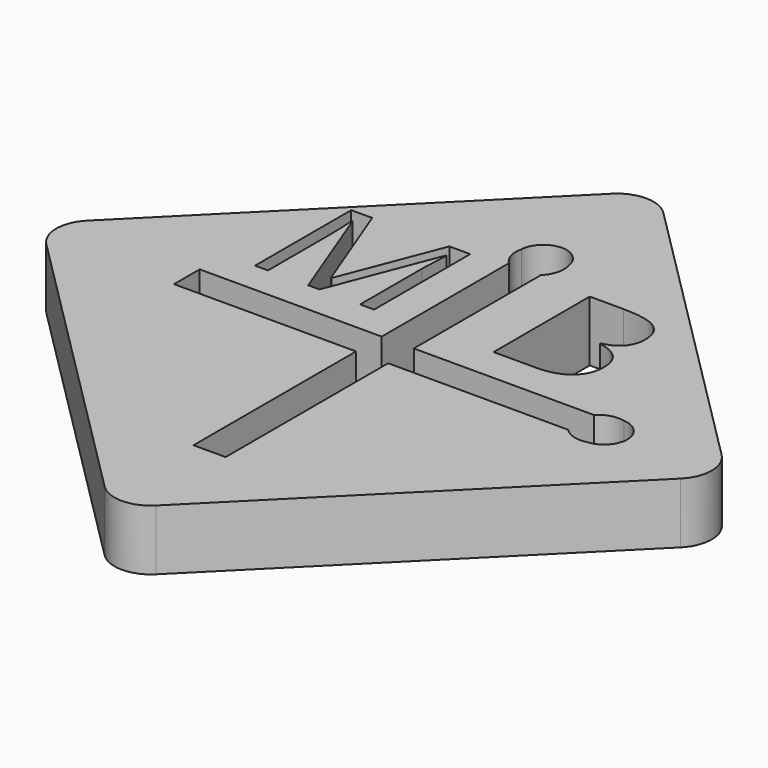
from build123d import *

# Parameters (mm, degrees)
F1_DEPTH = 2.5
F2_R     = 0.85
F3_DEPTH = 12.5


with BuildPart() as f1:
    # F0 (on Top) → F1 (new body)
    with BuildSketch(Plane.XY):
        with BuildLine():
            Line((13.081475452, -13.081475452), (1.0606601718, -1.0606601718))
            ThreePointArc((1.0606601718, -1.0606601718), (0, -0.6213203436), (-1.0606601718, -1.0606601718))
            Line((-1.0606601718, -1.0606601718), (-13.081475452, -13.081475452))
            ThreePointArc((-13.081475452, -13.081475452), (-13.5208152802, -14.1421356237), (-13.081475452, -15.2027957955))
            Line((-13.081475452, -15.2027957955), (-1.0606601718, -27.2236110757))
            ThreePointArc((-1.0606601718, -27.2236110757), (0, -27.6629509039), (1.0606601718, -27.2236110757))
            Line((1.0606601718, -27.2236110757), (13.081475452, -15.2027957955))
            ThreePointArc((13.081475452, -15.2027957955), (13.5208152802, -14.1421356237), (13.081475452, -13.081475452))
        make_face()
        with BuildLine():
            Line((-4.2446093448, -12.1634487249), (-4.709019067, -12.1634487249))
            Line((-4.709019067, -12.1634487249), (-6.3908767059, -7.7689174749))
            Line((-6.3908767059, -7.7689174749), (-6.418003442, -7.7689174749))
            add(Edge.make_bspline(
                [(-6.418003442, -7.7689174749), (-6.3702603864, -8.2908358777), (-6.3702603864, -9.0102369193)],
                knots=[0, 0, 0, 1, 1, 1], degree=2))
            Line((-6.3702603864, -9.0102369193), (-6.3702603864, -12.1634487249))
            Line((-6.3702603864, -12.1634487249), (-6.9030294836, -12.1634487249))
            Line((-6.9030294836, -12.1634487249), (-6.9030294836, -7.2057664332))
            Line((-6.9030294836, -7.2057664332), (-6.0349739281, -7.2057664332))
            Line((-6.0349739281, -7.2057664332), (-4.464878442, -11.2953931693))
            Line((-4.464878442, -11.2953931693), (-4.4377517059, -11.2953931693))
            Line((-4.4377517059, -11.2953931693), (-2.8546353864, -7.2057664332))
            Line((-2.8546353864, -7.2057664332), (-1.9930902475, -7.2057664332))
            Line((-1.9930902475, -7.2057664332), (-1.9930902475, -12.1634487249))
            Line((-1.9930902475, -12.1634487249), (-2.5692621225, -12.1634487249))
            Line((-2.5692621225, -12.1634487249), (-2.5692621225, -8.9690042805))
            add(Edge.make_bspline(
                [(-2.5692621225, -8.9690042805), (-2.5692621225, -8.4199591416), (-2.521519067, -7.7754278916)],
                knots=[0, 0, 0, 1, 1, 1], degree=2))
            Line((-2.521519067, -7.7754278916), (-2.5486458031, -7.7754278916))
            Line((-2.5486458031, -7.7754278916), (-4.2446093448, -12.1634487249))
        make_face(mode=Mode.SUBTRACT)
        with BuildLine():
            Line((-8.1334756687, -14.8039748892), (-8.1334756687, -13.4802963582))
            Line((-8.1334756687, -13.4802963582), (-0.6236797201, -13.4802963582))
            Line((-0.6236797201, -13.4802963582), (-0.6236797201, -6.9198086858))
            ThreePointArc((-0.6236797201, -6.9198086858), (-0.9032194318, -6.4583786209), (-0.9135835525, -5.9189782686))
            ThreePointArc((-0.9135835525, -5.9189782686), (0.0168397474, -5.0141534426), (0.9868078824, -5.876451129))
            ThreePointArc((0.9868078824, -5.876451129), (0.9900106564, -6.4384308628), (0.6999988109, -6.9198086858))
            Line((0.6999988109, -6.9198086858), (0.6999988109, -13.4802963582))
            Line((0.6999988109, -13.4802963582), (8.1334756687, -13.4802963582))
            ThreePointArc((8.1334756687, -13.4802963582), (8.5949057336, -13.2007566465), (9.134306086, -13.1903925258))
            ThreePointArc((9.134306086, -13.1903925258), (10.0391309119, -14.1208158258), (9.1768332255, -15.0907839607))
            ThreePointArc((9.1768332255, -15.0907839607), (8.6148534917, -15.0939867347), (8.1334756687, -14.8039748892))
            Line((8.1334756687, -14.8039748892), (0.6999988109, -14.8039748892))
            Line((0.6999988109, -14.8039748892), (0.6999988109, -23.1867600232))
            Line((0.6999988109, -23.1867600232), (-0.6236797201, -23.1867600232))
            Line((-0.6236797201, -23.1867600232), (-0.6236797201, -14.8039748892))
            Line((-0.6236797201, -14.8039748892), (-8.1334756687, -14.8039748892))
        make_face(mode=Mode.SUBTRACT)
        with BuildLine():
            Line((2.8647682919, -12.0710678119), (2.8647682919, -7.1133855202))
            Line((2.8647682919, -7.1133855202), (4.2655929447, -7.1133855202))
            add(Edge.make_bspline(
                [(4.2655929447, -7.1133855202), (5.2519210697, -7.1133855202), (5.6930017989, -7.4085244091)],
                knots=[0, 0, 0, 1, 1, 1], degree=2))
            add(Edge.make_bspline(
                [(5.6930017989, -7.4085244091), (6.134082528, -7.703663298), (6.134082528, -8.3405990619)],
                knots=[0, 0, 0, 1, 1, 1], degree=2))
            add(Edge.make_bspline(
                [(6.134082528, -8.3405990619), (6.134082528, -8.7822223258), (5.8883142989, -9.0686806591)],
                knots=[0, 0, 0, 1, 1, 1], degree=2))
            add(Edge.make_bspline(
                [(5.8883142989, -9.0686806591), (5.6425460697, -9.3551389924), (5.1705408614, -9.4397744091)],
                knots=[0, 0, 0, 1, 1, 1], degree=2))
            Line((5.1705408614, -9.4397744091), (5.1705408614, -9.4734115619))
            add(Edge.make_bspline(
                [(5.1705408614, -9.4734115619), (6.300098153, -9.666553923), (6.300098153, -10.6604775341)],
                knots=[0, 0, 0, 1, 1, 1], degree=2))
            add(Edge.make_bspline(
                [(6.300098153, -10.6604775341), (6.300098153, -11.3245400341), (5.850879403, -11.697803923)],
                knots=[0, 0, 0, 1, 1, 1], degree=2))
            add(Edge.make_bspline(
                [(5.850879403, -11.697803923), (5.401660653, -12.0710678119), (4.5943689864, -12.0710678119)],
                knots=[0, 0, 0, 1, 1, 1], degree=2))
            Line((4.5943689864, -12.0710678119), (2.8647682919, -12.0710678119))
        make_face(mode=Mode.SUBTRACT)
    extrude(amount=F1_DEPTH)

    # F2 (on Right) → F3 (cut, symmetric)
    with BuildSketch(Plane.YZ):
        with Locations((-2.4908210296, 1.292226194)):
            Circle(F2_R)
    extrude(amount=F3_DEPTH, both=True, mode=Mode.SUBTRACT)


solid = f1.part
